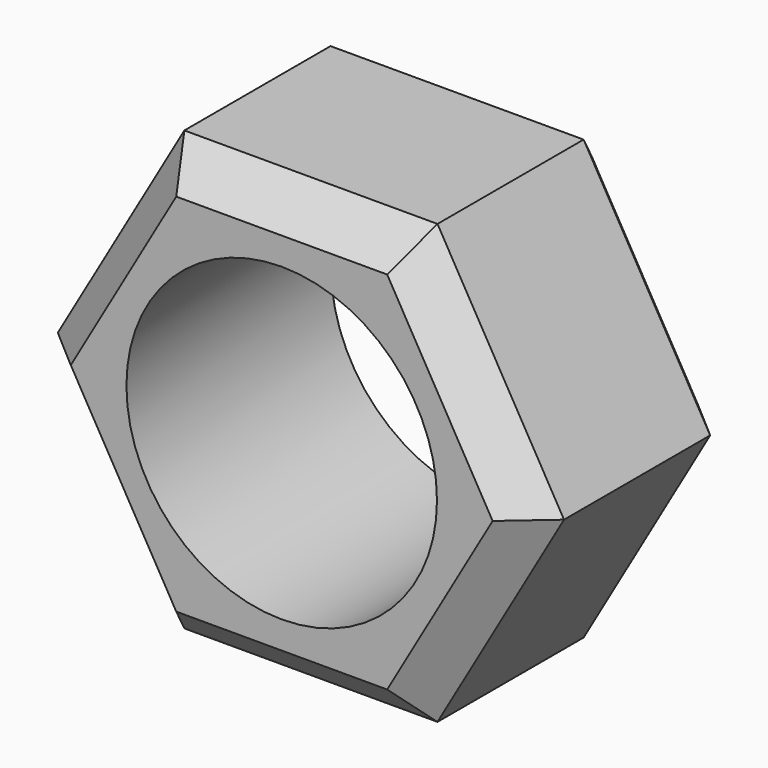
from build123d import *

# Parameters (mm, degrees)
F1_DEPTH = 7
F2_D     = 8.5
F3_SIZE  = 1


with BuildPart() as f1:
    # F0 (on Front) → F1 (new body)
    with BuildSketch(Plane.XZ):
        Polygon((3.4641016151, 6), (-3.4641016151, 6), (-6.9282032303, 0), (-3.4641016151, -6), (3.4641016151, -6), (6.9282032303, 0), align=None)
    extrude(amount=F1_DEPTH)

    # F2 (through all)
    with Locations(Plane(origin=(0, 0, 0), x_dir=(1, 0, 0), z_dir=(0, 1, 0))):
        with Locations((0, 0)):
            Hole(F2_D / 2)

    # F3
    f3_edges = [f1.edges().sort_by_distance(p)[0] for p in [
        (0, -7, 6),
        (-5.196152, -7, 3),
        (-5.196152, -7, -3),
        (0, -7, -6),
        (5.196152, -7, -3),
        (5.196152, -7, 3),
        (5.196152, 0, 3),
        (0, 0, 6),
        (-5.196152, 0, 3),
        (-5.196152, 0, -3),
        (0, 0, -6),
        (5.196152, 0, -3),
    ]]
    chamfer(f3_edges, length=F3_SIZE)


solid = f1.part
